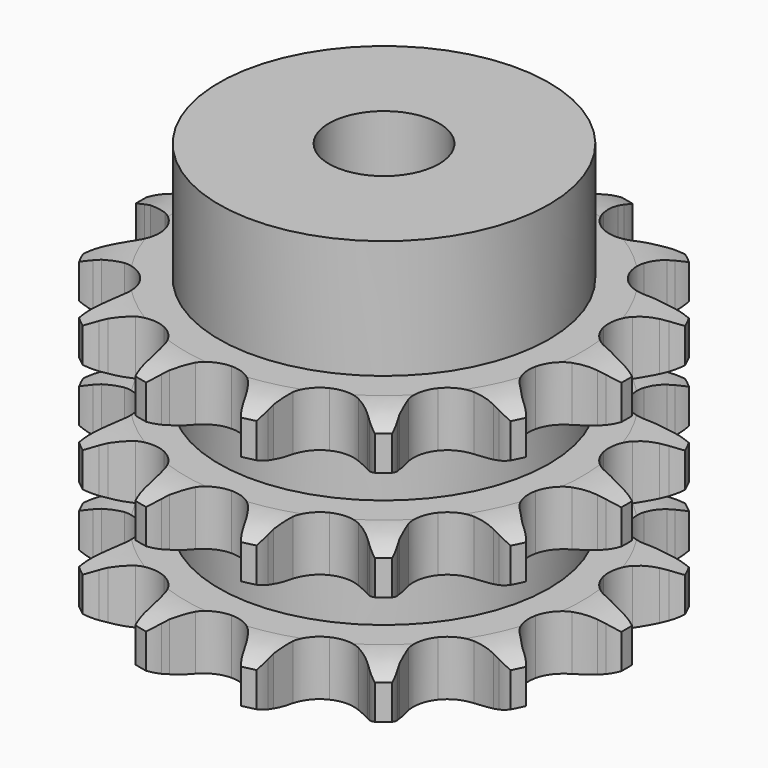
from build123d import *

# Parameters (mm, degrees)
PAD_DEPTH         = 34.9
SKETCH001_R       = 21
PAD001_DEPTH      = 50
SKETCH002_R       = 7
POCKET_DEPTH      = 0.001
POCKET_DEPTH_BACK = 50.001


with BuildPart() as part:
    # Sprocket → Pad (new body)
    with BuildSketch(Plane.XY):
        with BuildLine():
            ThreePointArc((-7.17871, 31.451983), (-6.034114, 30.303576), (-5.179097, 28.925938))
            Line((-5.179097, 28.925938), (-4.787351, 28.096657))
            ThreePointArc((-4.787351, 28.096657), (-4.133422, 26.906461), (-3.339318, 25.804831))
            ThreePointArc((-3.339318, 25.804831), (-1.847671, 24.637931), (0, 24.222266))
            ThreePointArc((0, 24.222266), (1.847671, 24.637931), (3.339318, 25.804831))
            ThreePointArc((3.339318, 25.804831), (4.133422, 26.906461), (4.787351, 28.096657))
            Line((4.787351, 28.096657), (5.179097, 28.925938))
            ThreePointArc((5.179097, 28.925938), (6.034114, 30.303576), (7.17871, 31.451983))
            ThreePointArc((7.17871, 31.451983), (7.71168, 29.920683), (7.884289, 28.308496))
            Line((7.884289, 28.308496), (7.877429, 27.391367))
            ThreePointArc((7.877429, 27.391367), (7.950192, 26.035308), (8.187675, 24.698225))
            ThreePointArc((8.187675, 24.698225), (9.025303, 22.999683), (10.509647, 21.823508))
            ThreePointArc((10.509647, 21.823508), (12.354692, 21.396334), (14.204918, 21.800473))
            Line((14.204918, 21.800473), (16.503937, 23.23706))
            ThreePointArc((16.503937, 23.23706), (16.854366, 23.533002), (17.2167, 23.814244))
            ThreePointArc((17.2167, 23.814244), (18.584778, 24.684474), (20.114298, 25.222532))
            ThreePointArc((20.114298, 25.222532), (19.930081, 23.611631), (19.386095, 22.084209))
            Line((19.386095, 22.084209), (18.981987, 21.260881))
            ThreePointArc((18.981987, 21.260881), (18.459172, 20.007543), (18.092998, 18.699833))
            ThreePointArc((18.092998, 18.699833), (18.110706, 16.806066), (18.93773, 15.102336))
            ThreePointArc((18.93773, 15.102336), (20.414714, 13.916931), (22.25706, 13.478265))
            Line((22.25706, 13.478265), (24.951716, 13.775078))
            ThreePointArc((24.951716, 13.775078), (25.395846, 13.889666), (25.844324, 13.985846))
            ThreePointArc((25.844324, 13.985846), (27.454498, 14.17631), (29.066003, 13.997449))
            ThreePointArc((29.066003, 13.997449), (28.201085, 12.626006), (27.048247, 11.485873))
            Line((27.048247, 11.485873), (26.32693, 10.919416))
            ThreePointArc((26.32693, 10.919416), (25.312087, 10.017039), (24.414782, 8.997709))
            ThreePointArc((24.414782, 8.997709), (23.609061, 7.283802), (23.614963, 5.389961))
            ThreePointArc((23.614963, 5.389961), (24.431352, 3.681109), (25.900918, 2.486521))
            Line((25.900918, 2.486521), (28.457501, 1.584772))
            ThreePointArc((28.457501, 1.584772), (28.907367, 1.495312), (29.353162, 1.38738))
            ThreePointArc((29.353162, 1.38738), (30.886519, 0.860354), (32.26083, 0))
            ThreePointArc((32.26083, 0), (30.886519, -0.860354), (29.353162, -1.38738))
            Line((29.353162, -1.38738), (28.457501, -1.584772))
            ThreePointArc((28.457501, -1.584772), (27.151633, -1.957463), (25.900918, -2.486521))
            ThreePointArc((25.900918, -2.486521), (24.431352, -3.681109), (23.614963, -5.389961))
            ThreePointArc((23.614963, -5.389961), (23.609061, -7.283802), (24.414782, -8.997709))
            Line((24.414782, -8.997709), (26.32693, -10.919416))
            ThreePointArc((26.32693, -10.919416), (26.69343, -11.195207), (27.048247, -11.485873))
            ThreePointArc((27.048247, -11.485873), (28.201085, -12.626006), (29.066003, -13.997449))
            ThreePointArc((29.066003, -13.997449), (27.454498, -14.17631), (25.844324, -13.985846))
            Line((25.844324, -13.985846), (24.951716, -13.775078))
            ThreePointArc((24.951716, -13.775078), (23.613465, -13.544265), (22.25706, -13.478265))
            ThreePointArc((22.25706, -13.478265), (20.414714, -13.916931), (18.93773, -15.102336))
            ThreePointArc((18.93773, -15.102336), (18.110706, -16.806066), (18.092998, -18.699833))
            Line((18.092998, -18.699833), (18.981987, -21.260881))
            ThreePointArc((18.981987, -21.260881), (19.192531, -21.668378), (19.386095, -22.084209))
            ThreePointArc((19.386095, -22.084209), (19.930081, -23.611631), (20.114298, -25.222532))
            ThreePointArc((20.114298, -25.222532), (18.584778, -24.684474), (17.2167, -23.814244))
            Line((17.2167, -23.814244), (16.503937, -23.23706))
            ThreePointArc((16.503937, -23.23706), (15.39836, -22.44846), (14.204918, -21.800473))
            ThreePointArc((14.204918, -21.800473), (12.354692, -21.396334), (10.509647, -21.823508))
            ThreePointArc((10.509647, -21.823508), (9.025303, -22.999683), (8.187675, -24.698225))
            Line((8.187675, -24.698225), (7.877429, -27.391367))
            ThreePointArc((7.877429, -27.391367), (7.890316, -27.849861), (7.884289, -28.308496))
            ThreePointArc((7.884289, -28.308496), (7.71168, -29.920683), (7.17871, -31.451983))
            ThreePointArc((7.17871, -31.451983), (6.034114, -30.303576), (5.179097, -28.925938))
            Line((5.179097, -28.925938), (4.787351, -28.096657))
            ThreePointArc((4.787351, -28.096657), (4.133422, -26.906461), (3.339318, -25.804831))
            ThreePointArc((3.339318, -25.804831), (1.847671, -24.637931), (0, -24.222266))
            ThreePointArc((0, -24.222266), (-1.847671, -24.637931), (-3.339318, -25.804831))
            Line((-3.339318, -25.804831), (-4.787351, -28.096657))
            ThreePointArc((-4.787351, -28.096657), (-4.974673, -28.515337), (-5.179097, -28.925938))
            ThreePointArc((-5.179097, -28.925938), (-6.034114, -30.303576), (-7.17871, -31.451983))
            ThreePointArc((-7.17871, -31.451983), (-7.71168, -29.920683), (-7.884289, -28.308496))
            Line((-7.884289, -28.308496), (-7.877429, -27.391367))
            ThreePointArc((-7.877429, -27.391367), (-7.950192, -26.035308), (-8.187675, -24.698225))
            ThreePointArc((-8.187675, -24.698225), (-9.025303, -22.999683), (-10.509647, -21.823508))
            ThreePointArc((-10.509647, -21.823508), (-12.354692, -21.396334), (-14.204918, -21.800473))
            Line((-14.204918, -21.800473), (-16.503937, -23.23706))
            ThreePointArc((-16.503937, -23.23706), (-16.854366, -23.533002), (-17.2167, -23.814244))
            ThreePointArc((-17.2167, -23.814244), (-18.584778, -24.684474), (-20.114298, -25.222532))
            ThreePointArc((-20.114298, -25.222532), (-19.930081, -23.611631), (-19.386095, -22.084209))
            Line((-19.386095, -22.084209), (-18.981987, -21.260881))
            ThreePointArc((-18.981987, -21.260881), (-18.459172, -20.007543), (-18.092998, -18.699833))
            ThreePointArc((-18.092998, -18.699833), (-18.110706, -16.806066), (-18.93773, -15.102336))
            ThreePointArc((-18.93773, -15.102336), (-20.414714, -13.916931), (-22.25706, -13.478265))
            Line((-22.25706, -13.478265), (-24.951716, -13.775078))
            ThreePointArc((-24.951716, -13.775078), (-25.395846, -13.889666), (-25.844324, -13.985846))
            ThreePointArc((-25.844324, -13.985846), (-27.454498, -14.17631), (-29.066003, -13.997449))
            ThreePointArc((-29.066003, -13.997449), (-28.201085, -12.626006), (-27.048247, -11.485873))
            Line((-27.048247, -11.485873), (-26.32693, -10.919416))
            ThreePointArc((-26.32693, -10.919416), (-25.312087, -10.017039), (-24.414782, -8.997709))
            ThreePointArc((-24.414782, -8.997709), (-23.609061, -7.283802), (-23.614963, -5.389961))
            ThreePointArc((-23.614963, -5.389961), (-24.431352, -3.681109), (-25.900918, -2.486521))
            Line((-25.900918, -2.486521), (-28.457501, -1.584772))
            ThreePointArc((-28.457501, -1.584772), (-28.907367, -1.495312), (-29.353162, -1.38738))
            ThreePointArc((-29.353162, -1.38738), (-30.886519, -0.860354), (-32.26083, 0))
            ThreePointArc((-32.26083, 0), (-30.886519, 0.860354), (-29.353162, 1.38738))
            Line((-29.353162, 1.38738), (-28.457501, 1.584772))
            ThreePointArc((-28.457501, 1.584772), (-27.151633, 1.957463), (-25.900918, 2.486521))
            ThreePointArc((-25.900918, 2.486521), (-24.431352, 3.681109), (-23.614963, 5.389961))
            ThreePointArc((-23.614963, 5.389961), (-23.609061, 7.283802), (-24.414782, 8.997709))
            Line((-24.414782, 8.997709), (-26.32693, 10.919416))
            ThreePointArc((-26.32693, 10.919416), (-26.69343, 11.195207), (-27.048247, 11.485873))
            ThreePointArc((-27.048247, 11.485873), (-28.201085, 12.626006), (-29.066003, 13.997449))
            ThreePointArc((-29.066003, 13.997449), (-27.454498, 14.17631), (-25.844324, 13.985846))
            Line((-25.844324, 13.985846), (-24.951716, 13.775078))
            ThreePointArc((-24.951716, 13.775078), (-23.613465, 13.544265), (-22.25706, 13.478265))
            ThreePointArc((-22.25706, 13.478265), (-20.414714, 13.916931), (-18.93773, 15.102336))
            ThreePointArc((-18.93773, 15.102336), (-18.110706, 16.806066), (-18.092998, 18.699833))
            Line((-18.092998, 18.699833), (-18.981987, 21.260881))
            ThreePointArc((-18.981987, 21.260881), (-19.192531, 21.668378), (-19.386095, 22.084209))
            ThreePointArc((-19.386095, 22.084209), (-19.930081, 23.611631), (-20.114298, 25.222532))
            ThreePointArc((-20.114298, 25.222532), (-18.584778, 24.684474), (-17.2167, 23.814244))
            Line((-17.2167, 23.814244), (-16.503937, 23.23706))
            ThreePointArc((-16.503937, 23.23706), (-15.39836, 22.44846), (-14.204918, 21.800473))
            ThreePointArc((-14.204918, 21.800473), (-12.354692, 21.396334), (-10.509647, 21.823508))
            ThreePointArc((-10.509647, 21.823508), (-9.025303, 22.999683), (-8.187675, 24.698225))
            Line((-8.187675, 24.698225), (-7.877429, 27.391367))
            ThreePointArc((-7.877429, 27.391367), (-7.890316, 27.849861), (-7.884289, 28.308496))
            ThreePointArc((-7.884289, 28.308496), (-7.71168, 29.920683), (-7.17871, 31.451983))
        make_face()
    extrude(amount=PAD_DEPTH)

    # Sketch → Groove (revolve, cut)
    with BuildSketch(Plane.XZ):
        with BuildLine():
            ThreePointArc((25.233431, 0), (28.14032, 0.329167), (30.9, 1.3))
            Line((30.9, 1.3), (30.9, 5.7))
            ThreePointArc((30.9, 5.7), (28.14032, 6.670833), (25.233431, 7))
            Line((21, 7), (25.233431, 7))
            Line((21, 7), (21, 13.95))
            Line((21, 13.95), (25.233431, 13.95))
            ThreePointArc((25.233431, 13.95), (28.14032, 14.279167), (30.9, 15.25))
            Line((30.9, 19.65), (30.9, 15.25))
            ThreePointArc((30.9, 19.65), (28.14032, 20.620833), (25.233431, 20.95))
            Line((21, 20.95), (25.233431, 20.95))
            Line((21, 27.9), (21, 20.95))
            Line((25.233431, 27.9), (21, 27.9))
            ThreePointArc((25.233431, 27.9), (28.14032, 28.229167), (30.9, 29.2))
            Line((30.9, 29.2), (30.9, 33.6))
            ThreePointArc((30.9, 33.6), (28.14032, 34.570833), (25.233431, 34.9))
            Line((25.233431, 34.9), (40.9, 34.9))
            Line((40.9, 34.9), (40.9, 0))
            Line((25.233431, 0), (40.9, 0))
        make_face()
    revolve(axis=Axis((0, 0, 0), (0, 0, 1)), mode=Mode.SUBTRACT)

    # Sketch001 → Pad001 (join)
    with BuildSketch(Plane.XY):
        Circle(SKETCH001_R)
    extrude(amount=PAD001_DEPTH)

    # Sketch002 → Pocket (cut, two sides)
    with BuildSketch(Plane.XY) as pocket_sk:
        Circle(SKETCH002_R)
    extrude(amount=-POCKET_DEPTH, mode=Mode.SUBTRACT)
    extrude(pocket_sk.sketch, amount=POCKET_DEPTH_BACK, mode=Mode.SUBTRACT)


solid = part.part
